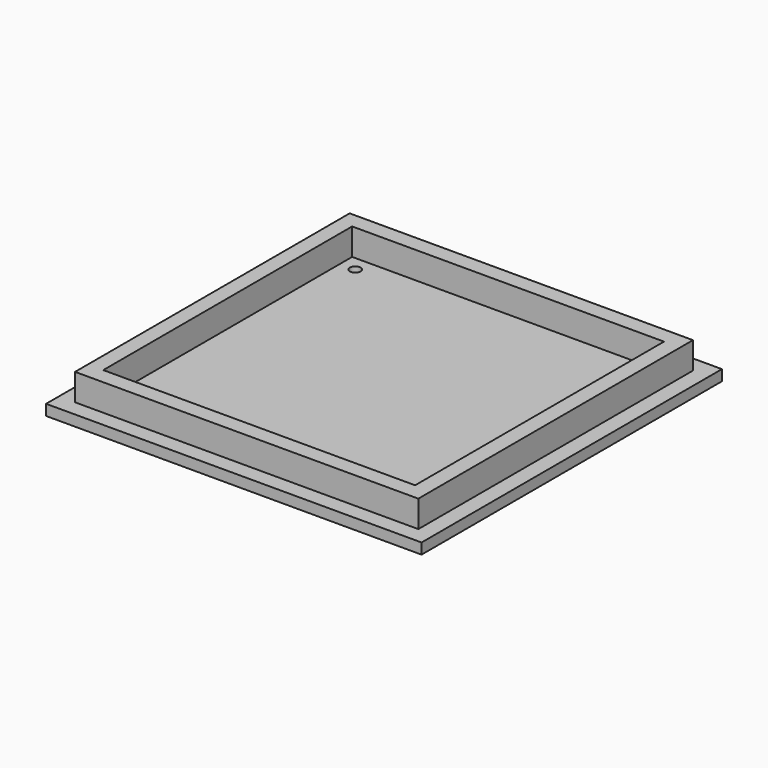
from build123d import *

# Parameters (mm, degrees)
F0_W     = 88.9
F0_H     = 88.9
F1_DEPTH = 2.54
F2_W     = 81.28
F2_H     = 81.28
F2_W_2   = 73.834833
F2_H_2   = 73.66
F3_DEPTH = 6.35
F4_R     = 1.27
F5_DEPTH = 2.541


with BuildPart() as f1:
    # F0 (on Top) → F1 (new body)
    with BuildSketch(Plane.XY):
        with Locations((44.45, 44.45)):
            Rectangle(F0_W, F0_H)
    extrude(amount=F1_DEPTH)

    # F2 (on face) → F3 (join)
    with BuildSketch(Plane.XY.offset(2.54)):
        with Locations((44.45, 44.45)):
            Rectangle(F2_W, F2_H)
        with Locations((44.362583, 44.45)):
            Rectangle(F2_W_2, F2_H_2, mode=Mode.SUBTRACT)
    extrude(amount=F3_DEPTH)

    # F4 (on face) → F5 (cut, through all)
    with BuildSketch(Plane.XY.offset(2.54)):
        with Locations((11.041525, 77.692158)):
            Circle(F4_R)
        with Locations((77.683642, 77.692158)):
            Circle(F4_R)
        with Locations((77.683642, 11.207842)):
            Circle(F4_R)
        with Locations((11.041525, 11.207842)):
            Circle(F4_R)
    extrude(amount=-F5_DEPTH, mode=Mode.SUBTRACT)


solid = f1.part
